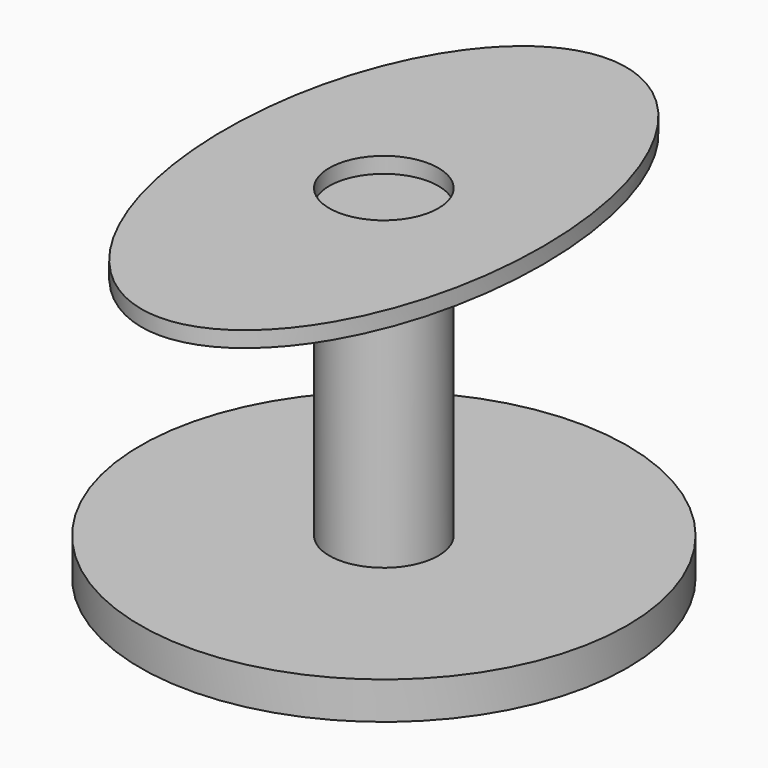
from build123d import *

# Parameters (mm, degrees)
F0_R     = 76.506459
F1_DEPTH = 11.745617
F2_R     = 17.152233
F3_DEPTH = 91.134138
F5_R     = 17.152233
F6_DEPTH = 4.973829


with BuildPart() as f1:
    # F0 (on Top) → F1 (new body)
    with BuildSketch(Plane.XY):
        Circle(F0_R)
    extrude(amount=F1_DEPTH)

    # F2 (on face) → F3 (join)
    with BuildSketch(Plane.XY.offset(11.745617)):
        Circle(F2_R)
    extrude(amount=F3_DEPTH)


with BuildPart() as f6:
    # F5 (on face) → F6 (new body)
    with BuildSketch(Plane.XY.offset(102.879755)):
        with BuildLine():
            add(Edge.make_bspline(
                [(0, -88.052452), (86.388621, -88.052452), (43.19431, 44.026226), (0, 176.104903), (-43.19431, 44.026226), (-86.388621, -88.052452), (0, -88.052452)],
                knots=[0, 0, 0, 2.094395, 2.094395, 4.18879, 4.18879, 6.283185, 6.283185, 6.283185], degree=2, weights=[1, 0.5, 1, 0.5, 1, 0.5, 1]))
        make_face()
        Circle(F5_R, mode=Mode.SUBTRACT)
    extrude(amount=F6_DEPTH)


solid = Compound([f1.part, f6.part])
